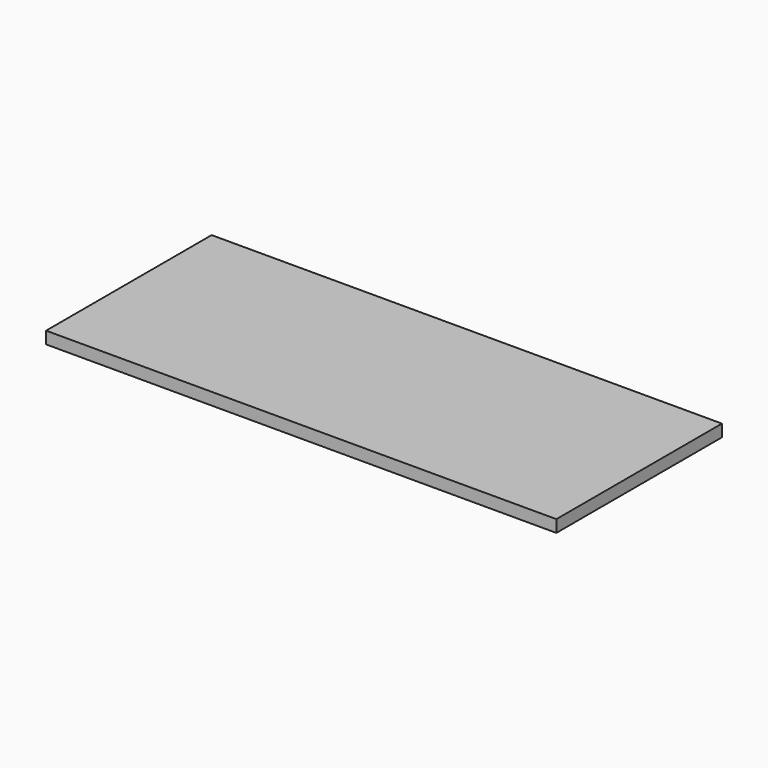
from build123d import *

# Parameters (mm, degrees)
SKETCH_W  = 801.55
SKETCH_H  = 325.05
PAD_DEPTH = 19.05


with BuildPart() as part:
    # Sketch → Pad (new body)
    with BuildSketch(Plane.XY):
        with Locations((400.775, 162.525)):
            Rectangle(SKETCH_W, SKETCH_H)
    extrude(amount=PAD_DEPTH)


solid = part.part
